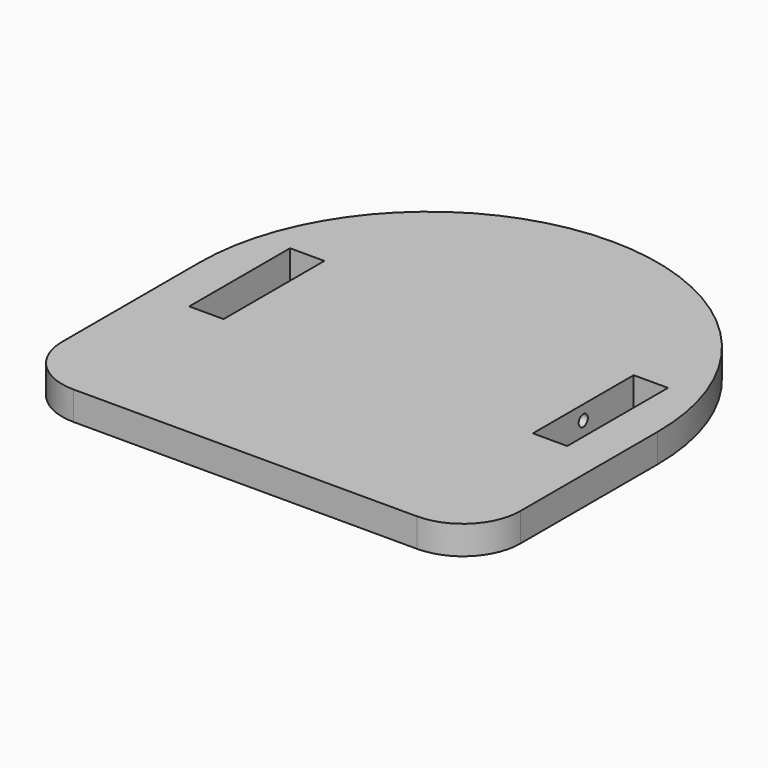
from build123d import *

# Parameters (mm, degrees)
F0_W     = 30
F0_H     = 110
F1_DEPTH = 25
F2_R     = 50
F3_R     = 5
F4_DEPTH = 270


with BuildPart() as f1:
    # F0 (on Top) → F1 (new body)
    with BuildSketch(Plane.XY):
        with BuildLine():
            Line((200, -200), (200, 0))
            ThreePointArc((200, 0), (0, 200), (-200, 0))
            Line((-200, 0), (-200, -200))
            Line((-200, -200), (200, -200))
        make_face()
        with Locations((-150, 0)):
            Rectangle(F0_W, F0_H, mode=Mode.SUBTRACT)
        with Locations((150, 0)):
            Rectangle(F0_W, F0_H, mode=Mode.SUBTRACT)
    extrude(amount=F1_DEPTH)

    # F2
    f2_edges = [f1.edges().sort_by_distance(p)[0] for p in [
        (200, -200, 12.5),
        (-200, -200, 12.5),
    ]]
    fillet(f2_edges, radius=F2_R)

    # F3 (on face) → F4 (cut, through all)
    with BuildSketch(Plane.YZ.offset(135)):
        with Locations((0, 12.5)):
            Circle(F3_R)
    extrude(amount=-F4_DEPTH, mode=Mode.SUBTRACT)


solid = f1.part
